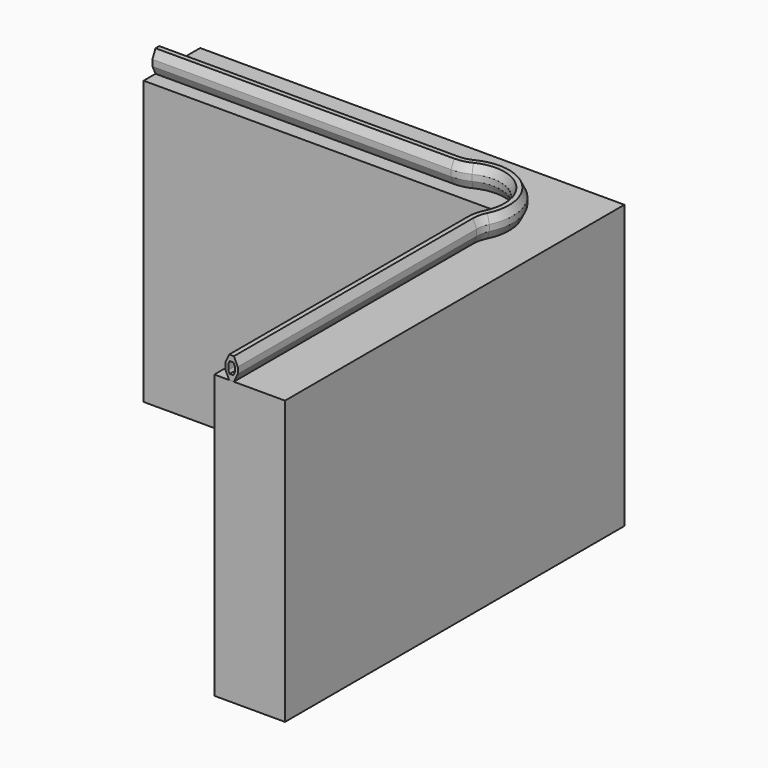
from build123d import *

# Parameters (mm, degrees)
F1_DEPTH = 100


with BuildPart() as f1:
    # F0 (on Top) → F1 (new body)
    with BuildSketch(Plane.XY):
        Polygon((0, -150), (0, 0), (-150, 0), (-150, -25), (-25, -25), (-25, -150), align=None)
    extrude(amount=F1_DEPTH)

    # F4: sweep along a path in F2
    with BuildLine(Plane.XY.offset(100)) as f4_path:
        Line((-150, -18.9), (-44.4089054678, -18.9))
        ThreePointArc((-44.4089054678, -18.9), (-41.6782966505, -18.5851947133), (-39.0909561818, -17.6572959145))
        ThreePointArc((-39.0909561818, -17.6572959145), (-20.6866486348, -20.6866486348), (-17.6572959145, -39.0909561818))
        ThreePointArc((-17.6572959145, -39.0909561818), (-18.5851947133, -41.6782966505), (-18.9, -44.4089054678))
        Line((-18.9, -44.4089054678), (-18.9, -150))
    # F3 (on face) → F4 (sweep)
    with BuildSketch(Plane(origin=(-150, 0, 0), x_dir=(0, -1, 0), z_dir=(-1, 0, 0))):
        Polygon((16.7, 102.875), (18.0713046565, 100), (19.7286953435, 100), (21.1, 102.875), (21.1, 105.075), (19.7286953435, 107.95), (18.0713046565, 107.95), (16.7, 105.075), align=None)
        Polygon((17.75, 104.971631851), (18.2285820574, 105.975), (19.5714179426, 105.975), (20.05, 104.971631851), (20.05, 102.978368149), (19.5714179426, 101.975), (18.2285820574, 101.975), (17.75, 102.978368149), align=None, mode=Mode.SUBTRACT)
    sweep(path=f4_path.line)


solid = f1.part
